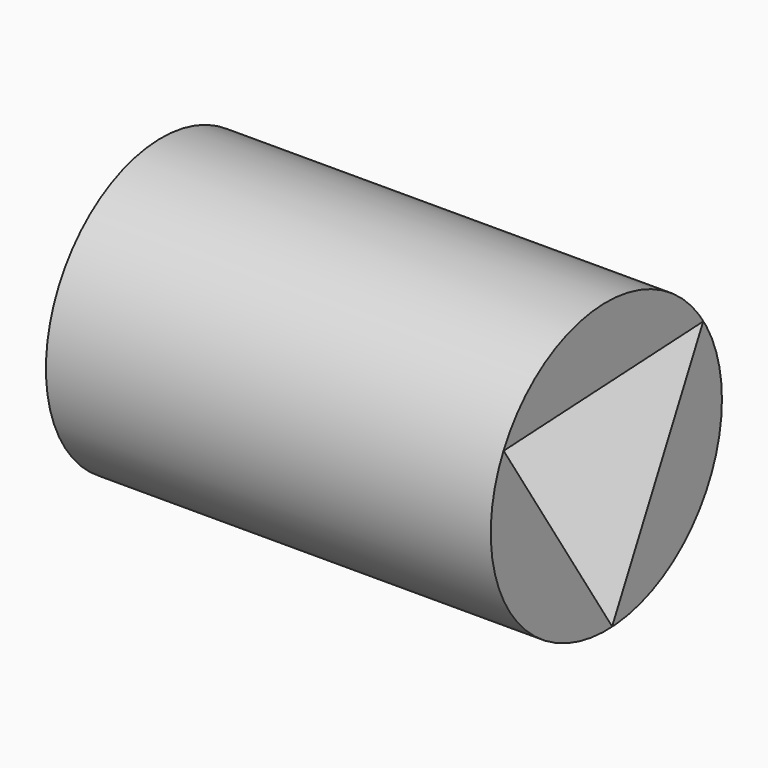
from build123d import *

# Parameters (mm, degrees)
F0_R     = 41.244892
F1_DEPTH = 127
F3_DEPTH = 193.548


with BuildPart() as f1:
    # F0 (on Right) → F1 (new body)
    with BuildSketch(Plane.YZ):
        with Locations((-18.318634, 36.953602)):
            Circle(F0_R)
    extrude(amount=F1_DEPTH)

    # F2 (on face) → F3 (cut)
    with BuildSketch(Plane.YZ.offset(127)):
        Polygon((-16.253044, -4.158902), (16.253044, 59.298708), (-54.955903, 55.721001), align=None)
    extrude(amount=-F3_DEPTH, mode=Mode.SUBTRACT)


solid = f1.part
